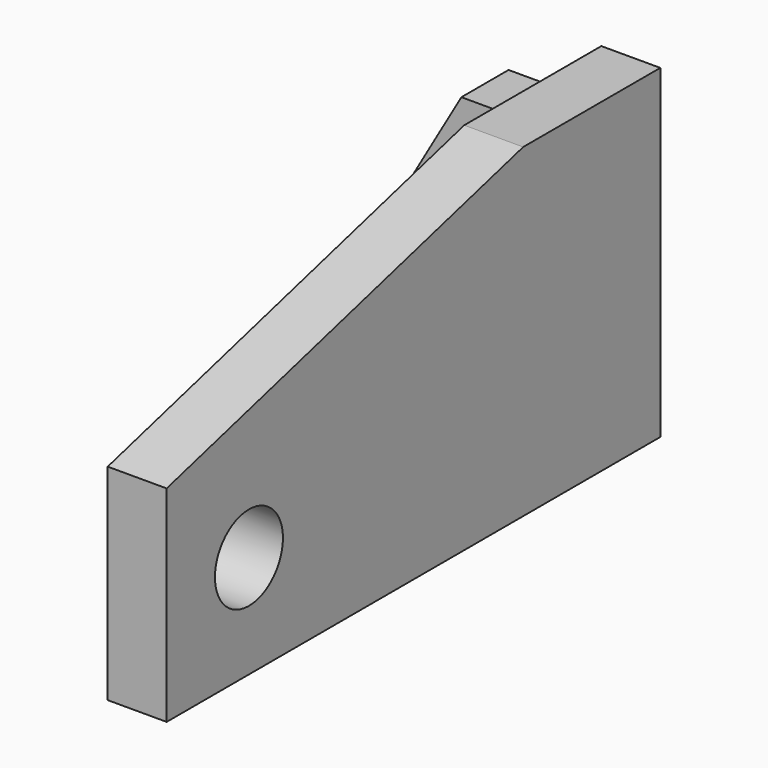
from build123d import *

# Parameters (mm, degrees)
F0_R     = 7.874
F1_DEPTH = 10.922
F3_DEPTH = 10.922
F5_DEPTH = 10.922


with BuildPart() as f1:
    # F0 (on Right) → F1 (new body)
    with BuildSketch(Plane.YZ):
        Polygon((0.113306, 60.207164), (-31.636694, 60.207164), (-114.186694, 38.087958), (-114.186694, 0.009164), (0.113306, 0.009164), align=None)
        with Locations((-95.136694, 19.059164)):
            Circle(F0_R, mode=Mode.SUBTRACT)
    extrude(amount=F1_DEPTH)

    # F2 (on Top) → F3 (join)
    with BuildSketch(Plane.XY):
        Polygon((-33.604922, -11.051118), (0, -63.629118), (10.845078, -63.629118), (10.845078, -0.129118), (-33.604922, -0.129118), align=None)
    extrude(amount=F3_DEPTH)

    # F4 (on Front) → F5 (join)
    with BuildSketch(Plane.XZ):
        Polygon((-33.668052, 0), (10.781948, 0), (10.781948, 50.8), (-17.096945, 50.8), (-33.668052, 22.098), align=None)
    extrude(amount=F5_DEPTH)


solid = f1.part
